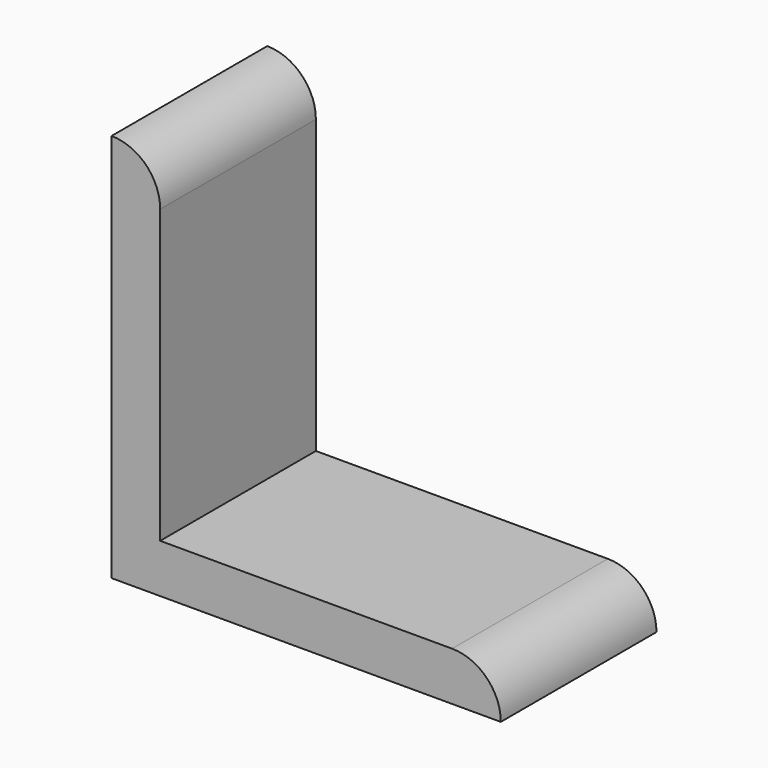
from build123d import *

# Parameters (mm, degrees)
F1_DEPTH = 25.4


with BuildPart() as f1:
    # F0 (on Front) → F1 (new body)
    with BuildSketch(Plane.XZ):
        with BuildLine():
            Line((0, 50.8), (0, 0))
            Line((0, 0), (50.8, 0))
            ThreePointArc((50.8, 0), (48.940128, 4.490128), (44.45, 6.35))
            Line((44.45, 6.35), (6.35, 6.35))
            Line((6.35, 6.35), (6.35, 44.45))
            ThreePointArc((6.35, 44.45), (4.490128, 48.940128), (0, 50.8))
        make_face()
    extrude(amount=F1_DEPTH)


solid = f1.part
